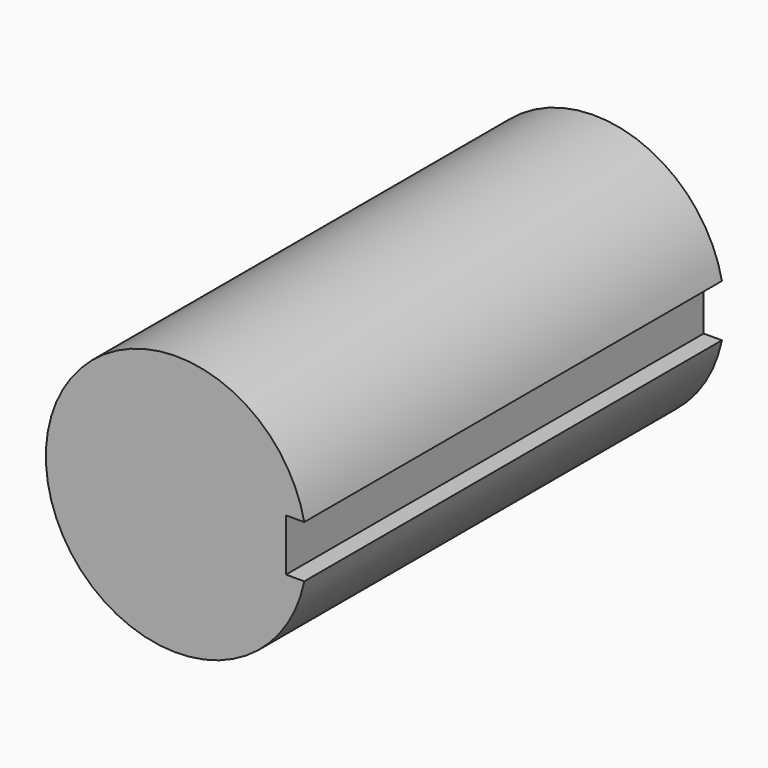
from build123d import *

# Parameters (mm, degrees)
F0_R     = 25
F1_DEPTH = 100
F2_W     = 8
F2_H     = 10
F3_DEPTH = 100.001


with BuildPart() as f1:
    # F0 (on Front) → F1 (new body)
    with BuildSketch(Plane.XZ):
        Circle(F0_R)
    extrude(amount=F1_DEPTH)

    # F2 (on Front) → F3 (cut, through all)
    with BuildSketch(Plane.XZ):
        with Locations((25, 0)):
            Rectangle(F2_W, F2_H)
    extrude(amount=F3_DEPTH, mode=Mode.SUBTRACT)


solid = f1.part
